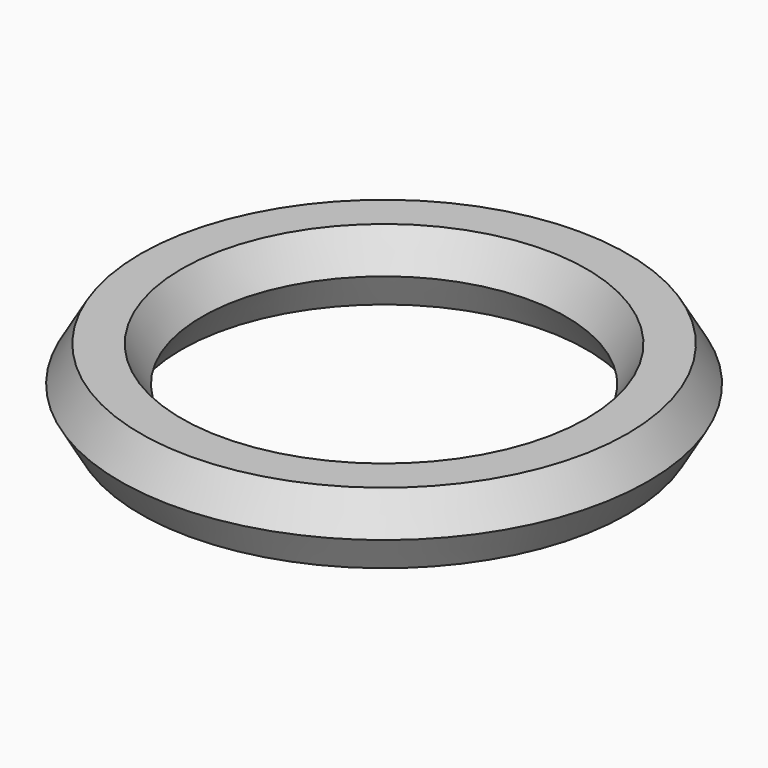
from build123d import *


with BuildPart() as f2:
    # F2: sweep along a path in F0
    with BuildLine(Plane.XY) as f2_path:
        CenterArc((0, 0), 34.601599, 0, 360)
    # F1 (on Front) → F2 (sweep)
    with BuildSketch(Plane.XZ):
        Polygon((31.426599, 5.499261), (28.251599, 0), (31.426599, -5.499261), (37.776599, -5.499261), (40.951599, 0), (37.776599, 5.499261), align=None)
    sweep(path=f2_path.line)


solid = f2.part
